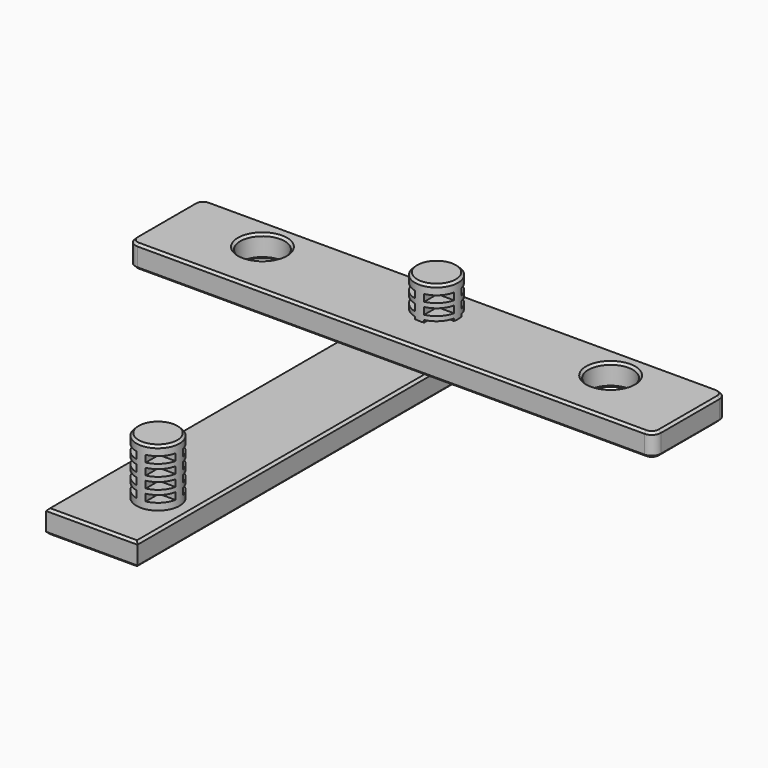
from build123d import *

# Parameters (mm, degrees)
SKETCH_R                           = 9.45
PAD_DEPTH                          = 25
SKETCH001_W                        = 40
SKETCH001_H                        = 50
PAD001_DEPTH                       = 10
FILLET_R                           = 2
CHAMFER_SIZE                       = 1
SKETCH002_W                        = 8
SKETCH002_H                        = 8
POCKET_DEPTH                       = 3
SKETCH002_LINEARPATTERN_2_W        = 8
SKETCH002_LINEARPATTERN_2_H        = 8
POCKET_LINEARPATTERN_2_DEPTH       = 3
SKETCH002_LINEARPATTERN_3_W        = 8
SKETCH002_LINEARPATTERN_3_H        = 8
POCKET_LINEARPATTERN_3_DEPTH       = 3
SKETCH002_LINEARPATTERN_4_W        = 8
SKETCH002_LINEARPATTERN_4_H        = 8
POCKET_LINEARPATTERN_4_DEPTH       = 3
POLARPATTERN_COUNT                 = 4
SKETCH003_R                        = 9.45
PAD002_DEPTH                       = 25
SKETCH005_W                        = 8
SKETCH005_H                        = 8
POCKET001_DEPTH                    = 3
SKETCH005_LINEARPATTERN001_2_W     = 8
SKETCH005_LINEARPATTERN001_2_H     = 8
POCKET001_LINEARPATTERN001_2_DEPTH = 3
SKETCH005_LINEARPATTERN001_3_W     = 8
SKETCH005_LINEARPATTERN001_3_H     = 8
POCKET001_LINEARPATTERN001_3_DEPTH = 3
SKETCH005_LINEARPATTERN001_4_W     = 8
SKETCH005_LINEARPATTERN001_4_H     = 8
POCKET001_LINEARPATTERN001_4_DEPTH = 3
POLARPATTERN001_COUNT              = 4
CHAMFER001_SIZE                    = 1
SKETCH009_W                        = 40
SKETCH009_H                        = 202.4
PAD004_DEPTH                       = 10
SKETCH010_R                        = 9.45
PAD005_DEPTH                       = 25
SKETCH011_W                        = 8
SKETCH011_H                        = 8
POCKET003_DEPTH                    = 3
SKETCH011_LINEARPATTERN003_2_W     = 8
SKETCH011_LINEARPATTERN003_2_H     = 8
POCKET003_LINEARPATTERN003_2_DEPTH = 3
SKETCH011_LINEARPATTERN003_3_W     = 8
SKETCH011_LINEARPATTERN003_3_H     = 8
POCKET003_LINEARPATTERN003_3_DEPTH = 3
SKETCH011_LINEARPATTERN003_4_W     = 8
SKETCH011_LINEARPATTERN003_4_H     = 8
POCKET003_LINEARPATTERN003_4_DEPTH = 3
POLARPATTERN003_COUNT              = 4
CHAMFER003_SIZE                    = 1
SKETCH006_R                        = 9.45
PAD003_DEPTH                       = 25
SKETCH007_W                        = 8
SKETCH007_H                        = 8
POCKET002_DEPTH                    = 3
SKETCH007_LINEARPATTERN002_2_W     = 8
SKETCH007_LINEARPATTERN002_2_H     = 8
POCKET002_LINEARPATTERN002_2_DEPTH = 3
SKETCH007_LINEARPATTERN002_3_W     = 8
SKETCH007_LINEARPATTERN002_3_H     = 8
POCKET002_LINEARPATTERN002_3_DEPTH = 3
SKETCH007_LINEARPATTERN002_4_W     = 8
SKETCH007_LINEARPATTERN002_4_H     = 8
POCKET002_LINEARPATTERN002_4_DEPTH = 3
POLARPATTERN002_COUNT              = 4
CHAMFER002_SIZE                    = 1
CHAMFER004_SIZE                    = 1
SKETCH012_R                        = 9.75
PAD006_DEPTH                       = 10
CHAMFER005_SIZE                    = 1


with BuildPart() as dog_butt:
    # Sketch → Pad (new body)
    with BuildSketch(Plane.XY):
        Circle(SKETCH_R)
    extrude(amount=PAD_DEPTH)

    # Sketch001 → Pad001 (join)
    with BuildSketch(Plane.XY):
        with Locations((-5, -5)):
            Rectangle(SKETCH001_W, SKETCH001_H)
    extrude(amount=-PAD001_DEPTH)

    # Fillet
    fillet_edges = [dog_butt.edges().sort_by_distance(p)[0] for p in [
        (-25, 20, -5),
        (15, 20, -5),
        (15, -30, -5),
        (-25, -30, -5),
    ]]
    fillet(fillet_edges, radius=FILLET_R)

    # Chamfer
    chamfer_edges = [dog_butt.edges().sort_by_distance(p)[0] for p in [
        (-9.45, 0, 25),
        (-5, 20, 0),
        (-24.414214, 19.414214, 0),
        (14.414214, 19.414214, 0),
        (-25, -5, 0),
        (15, -5, 0),
        (-24.414214, -29.414214, 0),
        (14.414214, -29.414214, 0),
        (-5, -30, 0),
        (-9.45, 0, 0),
        (-5, 20, -10),
        (-24.414214, 19.414214, -10),
        (14.414214, 19.414214, -10),
        (-25, -5, -10),
        (15, -5, -10),
        (-24.414214, -29.414214, -10),
        (14.414214, -29.414214, -10),
        (-5, -30, -10),
    ]]
    chamfer(chamfer_edges, length=CHAMFER_SIZE)

    # Sketch002 (on Face30 of Chamfer) → Pocket (cut)
    with BuildSketch(Plane.XY.offset(21)):
        with Locations((6, 6)):
            Rectangle(SKETCH002_W, SKETCH002_H)
    pocket = extrude(amount=-POCKET_DEPTH, mode=Mode.SUBTRACT)

    # Sketch002 LinearPattern 2 → Pocket LinearPattern 2 (cut)
    with BuildSketch(Plane.XY.offset(16)):
        with Locations((6, 6)):
            Rectangle(SKETCH002_LINEARPATTERN_2_W, SKETCH002_LINEARPATTERN_2_H)
    pocket_linearpattern_2 = extrude(amount=-POCKET_LINEARPATTERN_2_DEPTH, mode=Mode.SUBTRACT)

    # Sketch002 LinearPattern 3 → Pocket LinearPattern 3 (cut)
    with BuildSketch(Plane.XY.offset(11)):
        with Locations((6, 6)):
            Rectangle(SKETCH002_LINEARPATTERN_3_W, SKETCH002_LINEARPATTERN_3_H)
    pocket_linearpattern_3 = extrude(amount=-POCKET_LINEARPATTERN_3_DEPTH, mode=Mode.SUBTRACT)

    # Sketch002 LinearPattern 4 → Pocket LinearPattern 4 (cut)
    with BuildSketch(Plane.XY.offset(6)):
        with Locations((6, 6)):
            Rectangle(SKETCH002_LINEARPATTERN_4_W, SKETCH002_LINEARPATTERN_4_H)
    pocket_linearpattern_4 = extrude(amount=-POCKET_LINEARPATTERN_4_DEPTH, mode=Mode.SUBTRACT)

    # PolarPattern: Pocket, Pocket LinearPattern 2, Pocket LinearPattern 3, Pocket LinearPattern 4 ×4 about axis
    polarpattern_axis = Axis((0, 0, 0), (0, 0, 1))
    for i in range(1, POLARPATTERN_COUNT):
        add(pocket.rotate(polarpattern_axis, i * 360 / POLARPATTERN_COUNT), mode=Mode.SUBTRACT)
        add(pocket_linearpattern_2.rotate(polarpattern_axis, i * 360 / POLARPATTERN_COUNT), mode=Mode.SUBTRACT)
        add(pocket_linearpattern_3.rotate(polarpattern_axis, i * 360 / POLARPATTERN_COUNT), mode=Mode.SUBTRACT)
        add(pocket_linearpattern_4.rotate(polarpattern_axis, i * 360 / POLARPATTERN_COUNT), mode=Mode.SUBTRACT)


with BuildPart() as dog_plug:
    # Sketch003 → Pad002 (new body)
    with BuildSketch(Plane.XY):
        Circle(SKETCH003_R)
    extrude(amount=PAD002_DEPTH)

    # Sketch005 → Pocket001 (cut)
    with BuildSketch(Plane.XY.offset(21)):
        with Locations((6, 6)):
            Rectangle(SKETCH005_W, SKETCH005_H)
    pocket001 = extrude(amount=-POCKET001_DEPTH, mode=Mode.SUBTRACT)

    # Sketch005 LinearPattern001 2 → Pocket001 LinearPattern001 2 (cut)
    with BuildSketch(Plane.XY.offset(16)):
        with Locations((6, 6)):
            Rectangle(SKETCH005_LINEARPATTERN001_2_W, SKETCH005_LINEARPATTERN001_2_H)
    pocket001_linearpattern001_2 = extrude(amount=-POCKET001_LINEARPATTERN001_2_DEPTH, mode=Mode.SUBTRACT)

    # Sketch005 LinearPattern001 3 → Pocket001 LinearPattern001 3 (cut)
    with BuildSketch(Plane.XY.offset(11)):
        with Locations((6, 6)):
            Rectangle(SKETCH005_LINEARPATTERN001_3_W, SKETCH005_LINEARPATTERN001_3_H)
    pocket001_linearpattern001_3 = extrude(amount=-POCKET001_LINEARPATTERN001_3_DEPTH, mode=Mode.SUBTRACT)

    # Sketch005 LinearPattern001 4 → Pocket001 LinearPattern001 4 (cut)
    with BuildSketch(Plane.XY.offset(6)):
        with Locations((6, 6)):
            Rectangle(SKETCH005_LINEARPATTERN001_4_W, SKETCH005_LINEARPATTERN001_4_H)
    pocket001_linearpattern001_4 = extrude(amount=-POCKET001_LINEARPATTERN001_4_DEPTH, mode=Mode.SUBTRACT)

    # PolarPattern001: Pocket001, Pocket001 LinearPattern001 2, Pocket001 LinearPattern001 3, Pocket001 LinearPattern001 4 ×4 about axis
    polarpattern001_axis = Axis((0, 0, 0), (0, 0, 1))
    for i in range(1, POLARPATTERN001_COUNT):
        add(pocket001.rotate(polarpattern001_axis, i * 360 / POLARPATTERN001_COUNT), mode=Mode.SUBTRACT)
        add(pocket001_linearpattern001_2.rotate(polarpattern001_axis, i * 360 / POLARPATTERN001_COUNT), mode=Mode.SUBTRACT)
        add(pocket001_linearpattern001_3.rotate(polarpattern001_axis, i * 360 / POLARPATTERN001_COUNT), mode=Mode.SUBTRACT)
        add(pocket001_linearpattern001_4.rotate(polarpattern001_axis, i * 360 / POLARPATTERN001_COUNT), mode=Mode.SUBTRACT)

    # Chamfer001
    chamfer001_edges = [dog_plug.edges().sort_by_distance(p)[0] for p in [
        (-9.45, 0, 25),
    ]]
    chamfer(chamfer001_edges, length=CHAMFER001_SIZE)


with BuildPart() as f_6_inch_body:
    # Sketch009 → Pad004 (new body)
    with BuildSketch(Plane.XY):
        with Locations((-5, -81.2)):
            Rectangle(SKETCH009_W, SKETCH009_H)
    extrude(amount=-PAD004_DEPTH)


with BuildPart() as body004:
    # Sketch010 → Pad005 (new body)
    with BuildSketch(Plane.XY):
        Circle(SKETCH010_R)
    extrude(amount=PAD005_DEPTH)

    # Sketch011 → Pocket003 (cut)
    with BuildSketch(Plane.XY.offset(21)):
        with Locations((6, 6)):
            Rectangle(SKETCH011_W, SKETCH011_H)
    pocket003 = extrude(amount=-POCKET003_DEPTH, mode=Mode.SUBTRACT)

    # Sketch011 LinearPattern003 2 → Pocket003 LinearPattern003 2 (cut)
    with BuildSketch(Plane.XY.offset(16)):
        with Locations((6, 6)):
            Rectangle(SKETCH011_LINEARPATTERN003_2_W, SKETCH011_LINEARPATTERN003_2_H)
    pocket003_linearpattern003_2 = extrude(amount=-POCKET003_LINEARPATTERN003_2_DEPTH, mode=Mode.SUBTRACT)

    # Sketch011 LinearPattern003 3 → Pocket003 LinearPattern003 3 (cut)
    with BuildSketch(Plane.XY.offset(11)):
        with Locations((6, 6)):
            Rectangle(SKETCH011_LINEARPATTERN003_3_W, SKETCH011_LINEARPATTERN003_3_H)
    pocket003_linearpattern003_3 = extrude(amount=-POCKET003_LINEARPATTERN003_3_DEPTH, mode=Mode.SUBTRACT)

    # Sketch011 LinearPattern003 4 → Pocket003 LinearPattern003 4 (cut)
    with BuildSketch(Plane.XY.offset(6)):
        with Locations((6, 6)):
            Rectangle(SKETCH011_LINEARPATTERN003_4_W, SKETCH011_LINEARPATTERN003_4_H)
    pocket003_linearpattern003_4 = extrude(amount=-POCKET003_LINEARPATTERN003_4_DEPTH, mode=Mode.SUBTRACT)

    # PolarPattern003: Pocket003, Pocket003 LinearPattern003 2, Pocket003 LinearPattern003 3, Pocket003 LinearPattern003 4 ×4 about axis
    polarpattern003_axis = Axis((0, 0, 0), (0, 0, 1))
    for i in range(1, POLARPATTERN003_COUNT):
        add(pocket003.rotate(polarpattern003_axis, i * 360 / POLARPATTERN003_COUNT), mode=Mode.SUBTRACT)
        add(pocket003_linearpattern003_2.rotate(polarpattern003_axis, i * 360 / POLARPATTERN003_COUNT), mode=Mode.SUBTRACT)
        add(pocket003_linearpattern003_3.rotate(polarpattern003_axis, i * 360 / POLARPATTERN003_COUNT), mode=Mode.SUBTRACT)
        add(pocket003_linearpattern003_4.rotate(polarpattern003_axis, i * 360 / POLARPATTERN003_COUNT), mode=Mode.SUBTRACT)

    # Chamfer003
    chamfer003_edges = [body004.edges().sort_by_distance(p)[0] for p in [
        (-9.45, 0, 25),
    ]]
    chamfer(chamfer003_edges, length=CHAMFER003_SIZE)


with BuildPart() as body004_1:
    # Body004 placement: moved
    add(body004.part.moved(Location((0, -152.4, 0))))


with BuildPart() as double_dog:
    # Sketch006 → Pad003 (new body)
    with BuildSketch(Plane.XY):
        Circle(SKETCH006_R)
    extrude(amount=PAD003_DEPTH)

    # Sketch007 → Pocket002 (cut)
    with BuildSketch(Plane.XY.offset(21)):
        with Locations((6, 6)):
            Rectangle(SKETCH007_W, SKETCH007_H)
    pocket002 = extrude(amount=-POCKET002_DEPTH, mode=Mode.SUBTRACT)

    # Sketch007 LinearPattern002 2 → Pocket002 LinearPattern002 2 (cut)
    with BuildSketch(Plane.XY.offset(16)):
        with Locations((6, 6)):
            Rectangle(SKETCH007_LINEARPATTERN002_2_W, SKETCH007_LINEARPATTERN002_2_H)
    pocket002_linearpattern002_2 = extrude(amount=-POCKET002_LINEARPATTERN002_2_DEPTH, mode=Mode.SUBTRACT)

    # Sketch007 LinearPattern002 3 → Pocket002 LinearPattern002 3 (cut)
    with BuildSketch(Plane.XY.offset(11)):
        with Locations((6, 6)):
            Rectangle(SKETCH007_LINEARPATTERN002_3_W, SKETCH007_LINEARPATTERN002_3_H)
    pocket002_linearpattern002_3 = extrude(amount=-POCKET002_LINEARPATTERN002_3_DEPTH, mode=Mode.SUBTRACT)

    # Sketch007 LinearPattern002 4 → Pocket002 LinearPattern002 4 (cut)
    with BuildSketch(Plane.XY.offset(6)):
        with Locations((6, 6)):
            Rectangle(SKETCH007_LINEARPATTERN002_4_W, SKETCH007_LINEARPATTERN002_4_H)
    pocket002_linearpattern002_4 = extrude(amount=-POCKET002_LINEARPATTERN002_4_DEPTH, mode=Mode.SUBTRACT)

    # PolarPattern002: Pocket002, Pocket002 LinearPattern002 2, Pocket002 LinearPattern002 3, Pocket002 LinearPattern002 4 ×4 about axis
    polarpattern002_axis = Axis((0, 0, 0), (0, 0, 1))
    for i in range(1, POLARPATTERN002_COUNT):
        add(pocket002.rotate(polarpattern002_axis, i * 360 / POLARPATTERN002_COUNT), mode=Mode.SUBTRACT)
        add(pocket002_linearpattern002_2.rotate(polarpattern002_axis, i * 360 / POLARPATTERN002_COUNT), mode=Mode.SUBTRACT)
        add(pocket002_linearpattern002_3.rotate(polarpattern002_axis, i * 360 / POLARPATTERN002_COUNT), mode=Mode.SUBTRACT)
        add(pocket002_linearpattern002_4.rotate(polarpattern002_axis, i * 360 / POLARPATTERN002_COUNT), mode=Mode.SUBTRACT)

    # Chamfer002
    chamfer002_edges = [double_dog.edges().sort_by_distance(p)[0] for p in [
        (-9.45, 0, 25),
    ]]
    chamfer(chamfer002_edges, length=CHAMFER002_SIZE)

    # Fusion: union 6 inch body, Body004
    add(f_6_inch_body.part)
    add(body004_1.part)

    # Chamfer004
    chamfer004_edges = [double_dog.edges().sort_by_distance(p)[0] for p in [
        (-25, -81.2, -10),
        (-5, -182.4, -10),
        (15, -81.2, -10),
        (-5, 20, -10),
        (-25, -81.2, 0),
        (15, -81.2, 0),
        (-5, 20, 0),
        (-5, -182.4, 0),
    ]]
    chamfer(chamfer004_edges, length=CHAMFER004_SIZE)


with BuildPart() as double_dog_bar:
    # Sketch012 → Pad006 (new body)
    with BuildSketch(Plane.XY):
        with BuildLine():
            Line((-115, 11), (-115, -21))
            ThreePointArc((-115, -21), (-113.828427, -23.828427), (-111, -25))
            Line((-111, -25), (111, -25))
            ThreePointArc((111, -25), (113.828427, -23.828427), (115, -21))
            Line((115, -21), (115, 11))
            ThreePointArc((115, 11), (113.828427, 13.828427), (111, 15))
            Line((111, 15), (-111, 15))
            ThreePointArc((-111, 15), (-113.828427, 13.828427), (-115, 11))
        make_face()
        with Locations((-76.2, 0)):
            Circle(SKETCH012_R, mode=Mode.SUBTRACT)
        with Locations((76.2, 0)):
            Circle(SKETCH012_R, mode=Mode.SUBTRACT)
    extrude(amount=PAD006_DEPTH)

    # Chamfer005
    chamfer005_edges = [double_dog_bar.edges().sort_by_distance(p)[0] for p in [
        (-115, -5, 10),
        (-113.828427, -23.828427, 10),
        (0, -25, 10),
        (113.828427, -23.828427, 10),
        (115, -5, 10),
        (113.828427, 13.828427, 10),
        (0, 15, 10),
        (-113.828427, 13.828427, 10),
        (66.45, 0, 10),
        (-85.95, 0, 10),
        (-115, -5, 0),
        (-113.828427, -23.828427, 0),
        (0, -25, 0),
        (113.828427, -23.828427, 0),
        (115, -5, 0),
        (113.828427, 13.828427, 0),
        (0, 15, 0),
        (-113.828427, 13.828427, 0),
        (66.45, 0, 0),
        (-85.95, 0, 0),
    ]]
    chamfer(chamfer005_edges, length=CHAMFER005_SIZE)


solid = Compound([dog_butt.part, dog_plug.part, double_dog.part, double_dog_bar.part])
